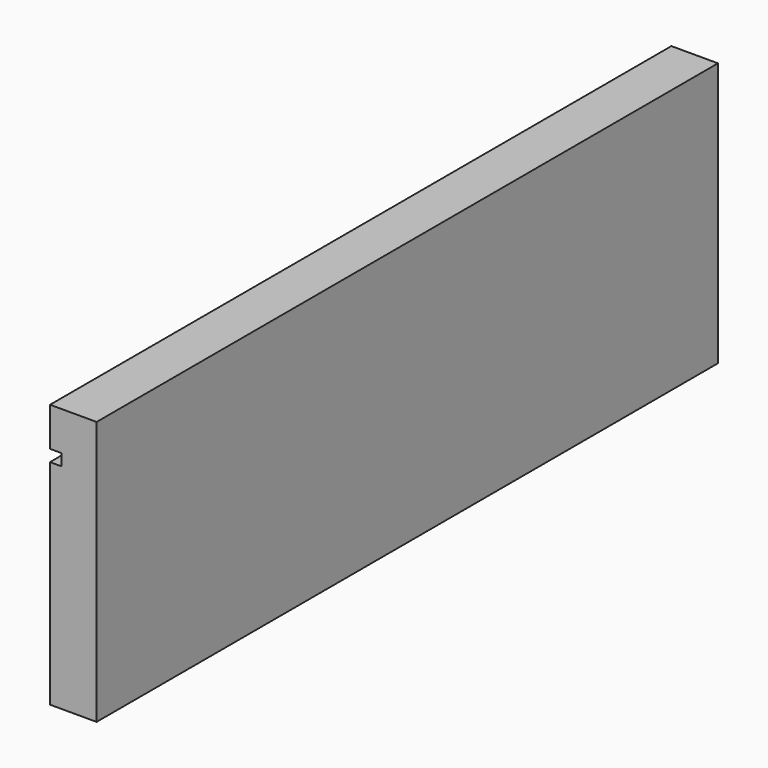
from build123d import *

# Parameters (mm, degrees)
F0_W     = 200
F0_H     = 68
F1_DEPTH = 12
F2_W     = 3
F2_H     = 3
F3_DEPTH = 32123
F4_W     = 3
F4_H     = 3
F5_DEPTH = 20


with BuildPart() as f1:
    # F0 (on Right) → F1 (new body)
    with BuildSketch(Plane.YZ):
        Rectangle(F0_W, F0_H)
    extrude(amount=F1_DEPTH)

    # F2 (on face) → F3 (cut)
    with BuildSketch(Plane.XZ.offset(100)):
        with Locations((1.5, 22.5)):
            Rectangle(F2_W, F2_H)
    extrude(amount=-F3_DEPTH, mode=Mode.SUBTRACT)

    # F4 (on face) → F5 (cut)
    with BuildSketch(Plane.XZ.offset(100)):
        with Locations((1.5, 22.5)):
            Rectangle(F4_W, F4_H)
    extrude(amount=-F5_DEPTH, mode=Mode.SUBTRACT)


solid = f1.part
